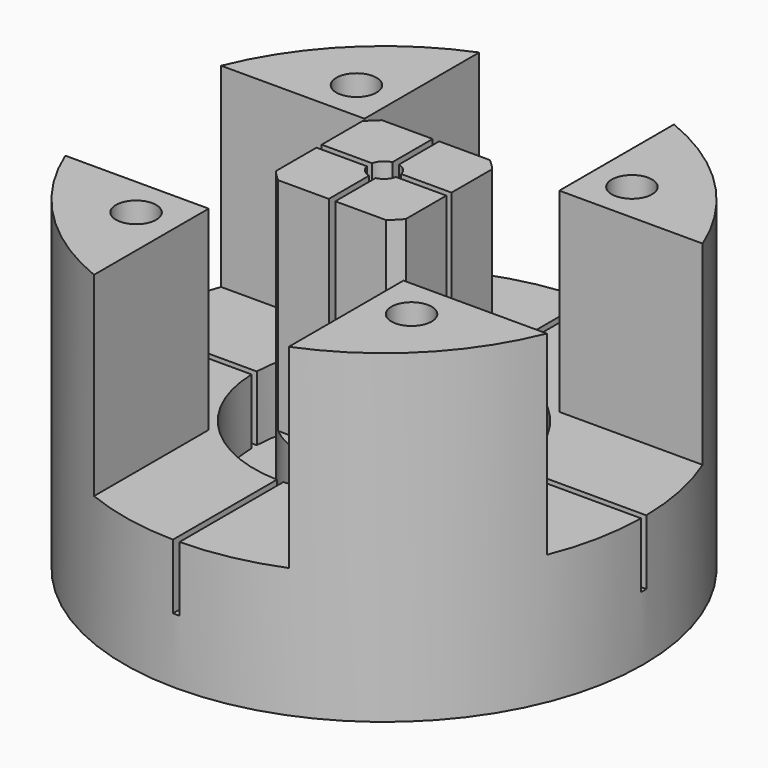
from build123d import *

# Parameters (mm, degrees)
F0_R      = 20
F1_DEPTH  = 25
F2_R      = 10
F3_DEPTH  = 20
F4_R      = 1.55
F5_DEPTH  = 25.001
F6_R      = 3
F7_DEPTH  = 3
F8_R      = 6.5
F9_DEPTH  = 22
F10_W     = 0.5
F10_H     = 21.0267571211
F10_H_2   = 0.5
F10_W_2   = 21.8651188016
F10_W_3   = 23.3558980227
F10_H_3   = 21.8529557288
F11_DEPTH = 20
F12_W     = 0.5
F12_H     = 6.25
F12_W_2   = 6.25
F12_H_2   = 0.5
F13_DEPTH = 22
F14_W     = 2.5
F14_H     = 2.5
F15_DEPTH = 15
F16_DEPTH = 2.001
F17_R     = 1.15
F18_DEPTH = 27.001


with BuildPart() as f1:
    # F0 (on Top) → F1 (new body)
    with BuildSketch(Plane.XY):
        Circle(F0_R)
    extrude(amount=F1_DEPTH)

    # F2 (on face) → F3 (cut)
    with BuildSketch(Plane.XY.offset(25)):
        Circle(F2_R)
    extrude(amount=-F3_DEPTH, mode=Mode.SUBTRACT)

    # F4 (on face) → F5 (cut, through all)
    with BuildSketch(Plane.XY.offset(25)):
        with Locations((10.6066017178, -10.6066017178)):
            Circle(F4_R)
        with Locations((10.6066017178, 10.6066017178)):
            Circle(F4_R)
        with Locations((-10.6066017178, 10.6066017178)):
            Circle(F4_R)
        with Locations((-10.6066017178, -10.6066017178)):
            Circle(F4_R)
    extrude(amount=-F5_DEPTH, mode=Mode.SUBTRACT)

    # F6 (on face) → F7 (cut)
    with BuildSketch(Plane(origin=(0, 0, 0), x_dir=(1, 0, 0), z_dir=(0, 0, -1))):
        with Locations((-10.6066017178, 10.6066017178)):
            Circle(F6_R)
        with Locations((10.6066017178, 10.6066017178)):
            Circle(F6_R)
        with Locations((10.6066017178, -10.6066017178)):
            Circle(F6_R)
        with Locations((-10.6066017178, -10.6066017178)):
            Circle(F6_R)
    extrude(amount=-F7_DEPTH, mode=Mode.SUBTRACT)

    # F8 (on face) → F9 (join)
    with BuildSketch(Plane.XY.offset(5)):
        Circle(F8_R)
    extrude(amount=F9_DEPTH)

    # F10 (on face) → F11 (cut)
    with BuildSketch(Plane.XY.offset(25)):
        with Locations((0, 10.7633785605)):
            Rectangle(F10_W, F10_H)
        Rectangle(F10_W, F10_H_2)
        with Locations((-11.1825594008, 0)):
            Rectangle(F10_W_2, F10_H_2)
        with Locations((11.9279490113, 0)):
            Rectangle(F10_W_3, F10_H_2)
        with Locations((0, -11.1764778644)):
            Rectangle(F10_W, F10_H_3)
    extrude(amount=-F11_DEPTH, mode=Mode.SUBTRACT)

    # F12 (on face) → F13 (cut)
    with BuildSketch(Plane.XY.offset(27)):
        with Locations((0, 3.375)):
            Rectangle(F12_W, F12_H)
        with Locations((3.375, 0)):
            Rectangle(F12_W_2, F12_H_2)
        Rectangle(F12_W, F12_H_2)
        with Locations((-3.375, 0)):
            Rectangle(F12_W_2, F12_H_2)
        with Locations((0, -3.375)):
            Rectangle(F12_W, F12_H)
    extrude(amount=-F13_DEPTH, mode=Mode.SUBTRACT)

    # F14 (on face) → F15 (cut)
    with BuildSketch(Plane.XY.offset(25)):
        Polygon((7.5, 7.5), (7.5, 5), (5, 5), (5, -5), (7.5, -5), (7.5, -7.5), (29.6562510729, -7.5), (29.6562510729, 7.5), align=None)
        with Locations((6.25, 6.25)):
            Rectangle(F14_W, F14_H)
        Polygon((-5, 5), (5, 5), (5, 7.5), (7.5, 7.5), (7.5, 33.6244015744), (-7.5, 33.6244015744), (-7.5, 7.5), (-5, 7.5), align=None)
        Polygon((-5, -5), (-5, 5), (-7.5, 5), (-7.5, 7.5), (-34.9968748779, 7.5), (-34.9968748779, -7.5), (-7.5, -7.5), (-7.5, -5), align=None)
        with Locations((-6.25, 6.25)):
            Rectangle(F14_W, F14_H)
        Polygon((5, -7.5), (5, -5), (-5, -5), (-5, -7.5), (-7.5, -7.5), (-7.5, -35.9319086373), (7.5, -35.9319086373), (7.5, -7.5), align=None)
        with Locations((6.25, -6.25)):
            Rectangle(F14_W, F14_H)
        with Locations((-6.25, -6.25)):
            Rectangle(F14_W, F14_H)
    extrude(amount=-F15_DEPTH, mode=Mode.SUBTRACT)

    # F14 (on face) → F16 (cut, through all)
    with BuildSketch(Plane.XY.offset(25)):
        Polygon((7.5, 7.5), (7.5, 5), (5, 5), (5, -5), (7.5, -5), (7.5, -7.5), (29.6562510729, -7.5), (29.6562510729, 7.5), align=None)
        with Locations((6.25, 6.25)):
            Rectangle(F14_W, F14_H)
        Polygon((-5, 5), (5, 5), (5, 7.5), (7.5, 7.5), (7.5, 33.6244015744), (-7.5, 33.6244015744), (-7.5, 7.5), (-5, 7.5), align=None)
        Polygon((-5, -5), (-5, 5), (-7.5, 5), (-7.5, 7.5), (-34.9968748779, 7.5), (-34.9968748779, -7.5), (-7.5, -7.5), (-7.5, -5), align=None)
        with Locations((-6.25, 6.25)):
            Rectangle(F14_W, F14_H)
        Polygon((5, -7.5), (5, -5), (-5, -5), (-5, -7.5), (-7.5, -7.5), (-7.5, -35.9319086373), (7.5, -35.9319086373), (7.5, -7.5), align=None)
        with Locations((6.25, -6.25)):
            Rectangle(F14_W, F14_H)
        with Locations((-6.25, -6.25)):
            Rectangle(F14_W, F14_H)
    extrude(amount=F16_DEPTH, mode=Mode.SUBTRACT)

    # F17 (on face) → F18 (cut, through all)
    with BuildSketch(Plane(origin=(0, 0, 0), x_dir=(1, 0, 0), z_dir=(0, 0, -1))):
        Circle(F17_R)
    extrude(amount=-F18_DEPTH, mode=Mode.SUBTRACT)


solid = f1.part
